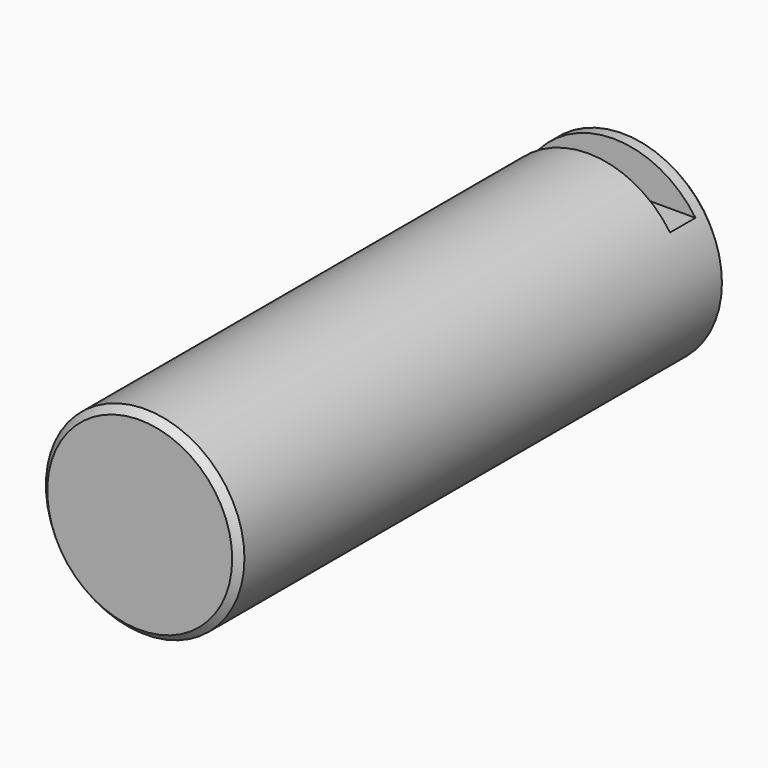
from build123d import *

# Parameters (mm, degrees)
F0_R     = 22.225
F1_DEPTH = 68.326
F2_SIZE  = 1.524
F3_W     = 7.112
F3_H     = 19.304
F4_DEPTH = 25.4


with BuildPart() as f1:
    # F0 (on Front) → F1 (new body, symmetric)
    with BuildSketch(Plane.XZ):
        Circle(F0_R)
    extrude(amount=F1_DEPTH, both=True)

    # F2
    f2_edges = [f1.edges().sort_by_distance(p)[0] for p in [
        (-22.225, -68.326, 0),
        (-22.225, 68.326, 0),
    ]]
    chamfer(f2_edges, length=F2_SIZE)

    # F3 (on Right) → F4 (cut, symmetric)
    with BuildSketch(Plane.YZ):
        with Locations((60.706, 22.225)):
            Rectangle(F3_W, F3_H)
    extrude(amount=F4_DEPTH, both=True, mode=Mode.SUBTRACT)


solid = f1.part
